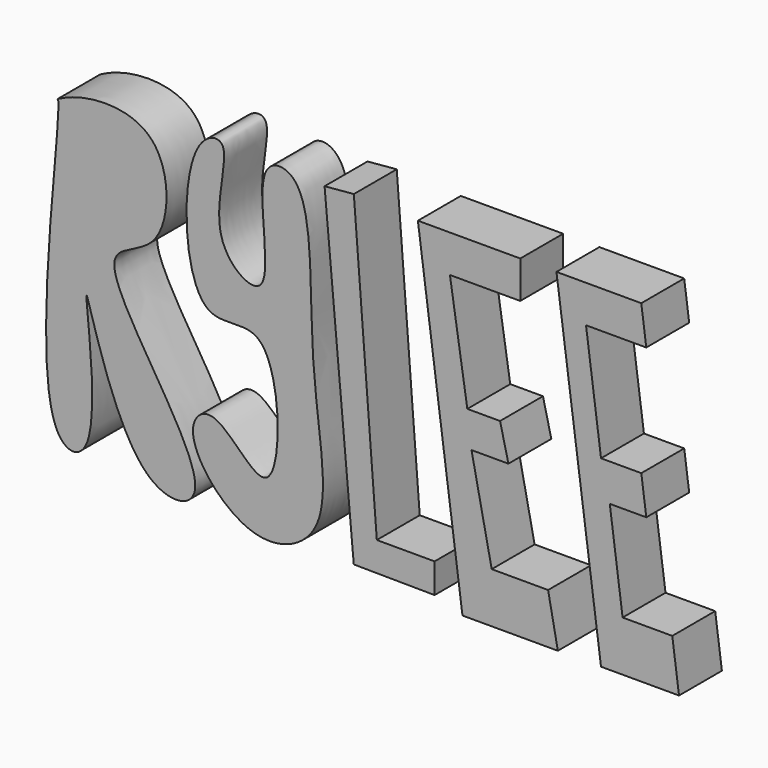
from build123d import *

# Parameters (mm, degrees)
F3_DEPTH = 25.4


with BuildPart() as f3:
    # F0 (on Front) → F3 (new body)
    with BuildSketch(Plane.XZ):
        with BuildLine():
            add(Edge.make_bspline(
                [(-146.7391550541, -62.4219924212), (-158.7550075387, -34.5579690332), (-142.420274017, 76.4132694238), (-147.0120262418, 73.8504494814), (-134.2918501024, 81.3118016318), (-91.7045098537, 81.3304362584), (-92.4688440271, 22.7900990093), (-140.6966167226, 22.887367197), (-58.1126884205, -72.9047046037), (-114.8537880152, -79.8089954967), (-141.2046389679, 45.7508286573), (-121.772192968, -73.9965925415), (-142.8251423557, -71.4983473038), (-146.7391550541, -62.4219924212)],
                knots=[0, 0, 0, 0, 0.1738373388, 0.1824117298, 0.2309670964, 0.3200740381, 0.4160509532, 0.4884701901, 0.6294475026, 0.7003950733, 0.8257292398, 0.943374675, 1, 1, 1, 1], degree=3))
        make_face()
    extrude(amount=F3_DEPTH)


with BuildPart() as f3b:
    # F1 (on Front) → F3, piece 2 (new body)
    with BuildSketch(Plane.XZ):
        with BuildLine():
            add(Edge.make_bspline(
                [(-79.1402161121, 76.3447582722), (-87.8507374892, 61.7056142279), (-85.9130094757, -6.5720391253), (-40.1833893153, 21.9381122295), (-38.6150932586, -77.3258460767), (-70.6502035997, -25.9889354304), (-89.6696387385, -44.4021019826), (-55.8656052614, -85.8082040052), (-11.6654963253, -67.0774994401), (-29.5197968597, 1.001253552), (-22.9666467062, 81.2493707713), (-56.658517281, 82.3624083967), (-38.1431760207, 13.797624799), (-78.6815619245, 39.9427390196), (-59.8617058976, 86.1877001484), (-75.4182445226, 82.6000070534), (-79.1402161121, 76.3447582722)],
                knots=[0, 0, 0, 0, 0.0967915888, 0.1576705744, 0.2465996799, 0.3118212036, 0.3547792764, 0.4331997742, 0.5002721736, 0.5985943908, 0.7014680335, 0.7447921261, 0.8275204994, 0.8836436338, 0.9586413341, 1, 1, 1, 1], degree=3))
        make_face()
    extrude(amount=F3_DEPTH)


with BuildPart() as f3c:
    # F2 (on Front) → F3, piece 3 (new body)
    with BuildSketch(Plane.XZ):
        Polygon((-5.605767481, 80.5209353566), (-19.4553025067, 79.287417233), (-5.6361855494, -73.8975768275), (32.6453372836, -74.2347612977), (32.6453372836, -60.1729862392), (5.276015494, -60.1729862392), align=None)
    extrude(amount=F3_DEPTH)


with BuildPart() as f3d:
    # F2 (on Front) → F3, piece 4 (new body)
    with BuildSketch(Plane.XZ):
        Polygon((73.204703629, 79.287417233), (24.7313193977, 79.287417233), (45.8353795111, -78.4657523036), (91.0112559795, -78.4657523036), (86.3947421312, -54.6306595206), (59.6849173307, -54.6306595206), (50.1221381128, -8.0848876387), (67.5989463925, -8.0848876387), (63.6419281363, 8.4338942543), (48.1436364353, 8.4338942543), (39.8998633027, 61.5790002048), (73.204703629, 61.5790002048), align=None)
    extrude(amount=F3_DEPTH)


with BuildPart() as f3e:
    # F2 (on Front) → F3, piece 5 (new body)
    with BuildSketch(Plane.XZ):
        Polygon((130.5205993171, 79.287417233), (90.3517454863, 79.287417233), (111.4558055997, -78.4657523036), (148.3879238367, -78.4657523036), (145.1992891337, -54.6306595206), (121.6780841351, -54.6306595206), (115.601541874, -9.2084139266), (132.8896135092, -9.2084139266), (130.5294432921, 8.4338942543), (111.4558055997, 8.4338942543), (104.3461068595, 61.5790002048), (132.8896135092, 61.5790002048), align=None)
    extrude(amount=F3_DEPTH)


solid = Compound([f3.part, f3b.part, f3c.part, f3d.part, f3e.part])
